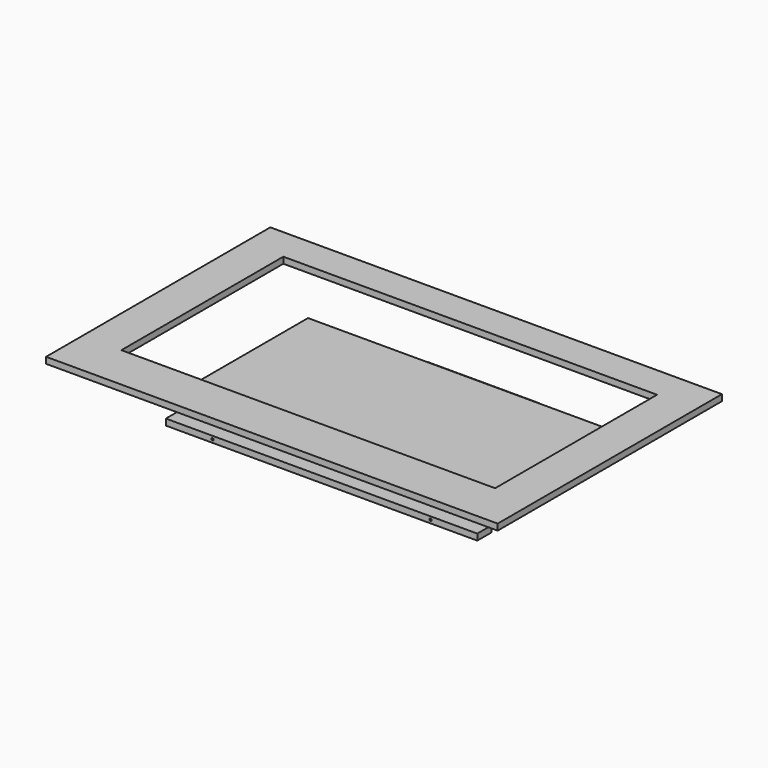
from build123d import *

# Parameters (mm, degrees)
F0_W     = 414
F0_H     = 214
F1_DEPTH = 3
F4_DEPTH = 8
F5_R     = 1.5
F6_DEPTH = 30.001
F8_W     = 580
F8_H     = 360
F8_W_2   = 480
F8_H_2   = 260
F9_DEPTH = 8


with BuildPart() as f1:
    # F0 (on Top) → F1 (new body)
    with BuildSketch(Plane.XY):
        with Locations((200, 100)):
            Rectangle(F0_W, F0_H)
    extrude(amount=-F1_DEPTH)


with BuildPart() as f4:
    # F3 (on offset) → F4 (new body)
    with BuildSketch(Plane.XY.offset(-15)):
        with BuildLine():
            Line((0, -7.259924), (0, -30))
            Line((0, -30), (400, -30))
            Line((400, -30), (400, -7.259924))
            add(Edge.make_bspline(
                [(400, -7.259924), (279.372686, -7.259924), (271.897802, 195.273831), (271.897802, 230)],
                knots=[0, 0, 0, 0, 269.633909, 269.633909, 269.633909, 269.633909], degree=3))
            Line((271.897802, 230), (128.102198, 230))
            add(Edge.make_bspline(
                [(0, -7.259924), (120.627314, -7.259924), (128.102198, 195.273831), (128.102198, 230)],
                knots=[0, 0, 0, 0, 269.633909, 269.633909, 269.633909, 269.633909], degree=3))
        make_face()
    extrude(amount=-F4_DEPTH)

    # F5 (on Front) → F6 (cut, through all)
    with BuildSketch(Plane.XZ):
        with Locations((340, -19)):
            Circle(F5_R)
        with Locations((60, -19)):
            Circle(F5_R)
    extrude(amount=F6_DEPTH, mode=Mode.SUBTRACT)


with BuildPart() as f9:
    # F8 (on offset) → F9 (new body)
    with BuildSketch(Plane.XY.offset(50)):
        with Locations((200, 70.234142)):
            Rectangle(F8_W, F8_H)
        with Locations((200, 78.616977)):
            Rectangle(F8_W_2, F8_H_2, mode=Mode.SUBTRACT)
    extrude(amount=F9_DEPTH)


solid = Compound([f1.part, f4.part, f9.part])
